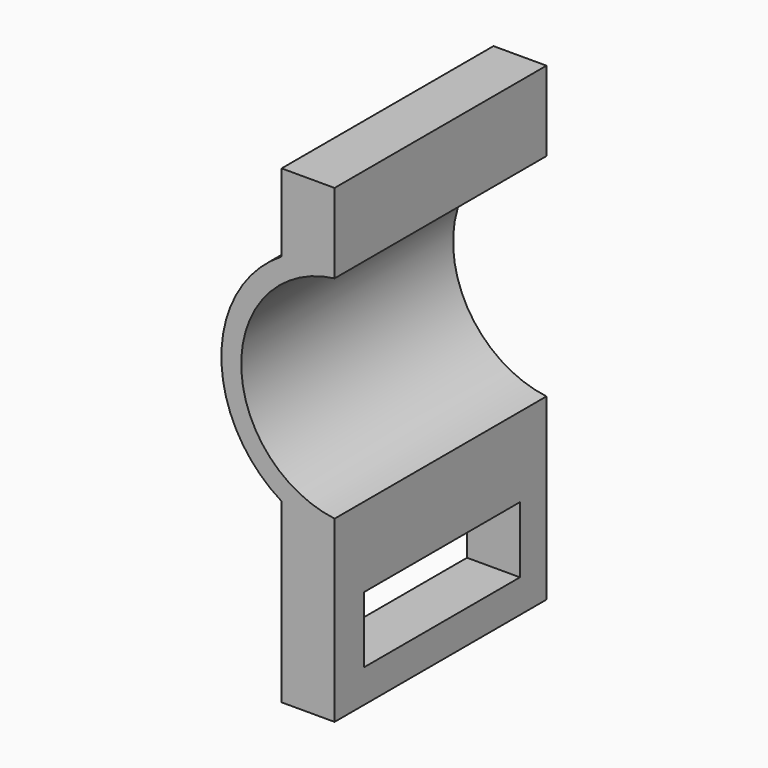
from build123d import *

# Parameters (mm, degrees)
F1_DEPTH = 40
F2_W     = 29.421238
F2_H     = 10
F3_DEPTH = 8.001


with BuildPart() as f1:
    # F0 (on Front) → F1 (new body)
    with BuildSketch(Plane.XZ):
        with BuildLine():
            ThreePointArc((-2, -15.975293), (-16.1, 0), (-2, 15.975293))
            Line((-2, 15.975293), (-2, 28))
            Line((-2, 28), (-10, 28))
            Line((-10, 28), (-10, 16.272984))
            ThreePointArc((-10, 16.272984), (-19.1, 0), (-10, -16.272984))
            Line((-10, -16.272984), (-10, -28))
            Line((-10, -28), (-10, -43))
            Line((-10, -43), (-2, -43))
            Line((-2, -43), (-2, -28))
            Line((-2, -28), (-2, -15.975293))
        make_face()
    extrude(amount=F1_DEPTH)

    # F2 (on face) → F3 (cut, through all)
    with BuildSketch(Plane(origin=(-10, 0, 0), x_dir=(0, -1, 0), z_dir=(-1, 0, 0))):
        with Locations((19.710619, -33)):
            Rectangle(F2_W, F2_H)
    extrude(amount=-F3_DEPTH, mode=Mode.SUBTRACT)


solid = f1.part
